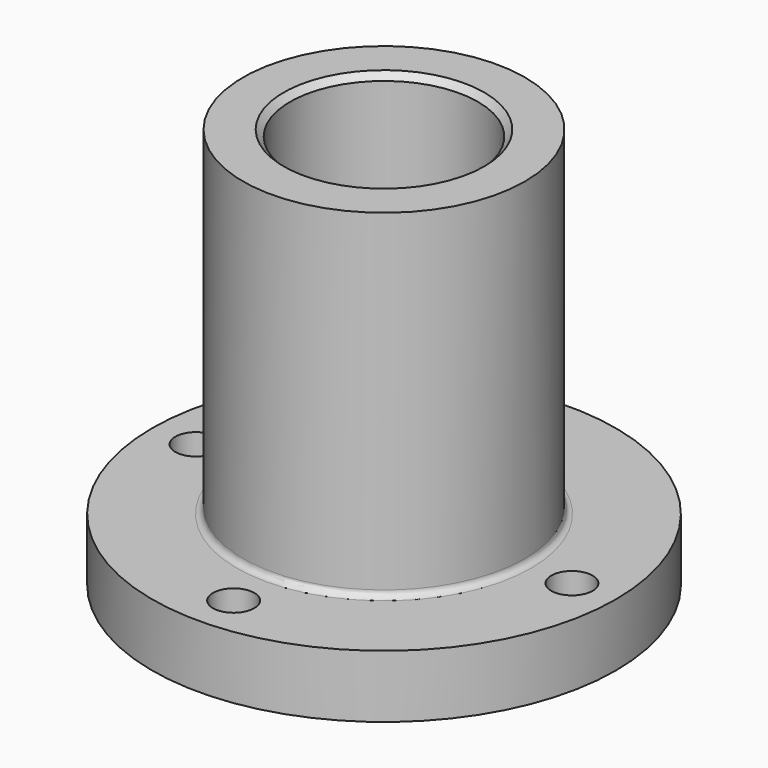
from build123d import *

# Parameters (mm, degrees)
F2_R     = 3.3
F3_DEPTH = 64.001
F4_R     = 5.5
F5_DEPTH = 6.1
F6_R     = 1
F7_SIZE2 = 1
F7_SIZE  = 1
F8_SIZE  = 1


with BuildPart() as f1:
    # F0 (on Front) → F1 (revolve)
    with BuildSketch(Plane.XZ):
        Polygon((15, 64), (15, 0), (37, 0), (37, 10), (22.5, 10), (22.5, 64), align=None)
    revolve(axis=Axis((0, 0, 43.789597), (0, 0, 1)))

    # F2 (on face) → F3 (cut, through all)
    with BuildSketch(Plane(origin=(0, 0, 0), x_dir=(1, 0, 0), z_dir=(0, 0, -1))):
        with Locations((0, 30)):
            Circle(F2_R)
        with Locations((-30, 0)):
            Circle(F2_R)
        with Locations((0, -30)):
            Circle(F2_R)
        with Locations((30, 0)):
            Circle(F2_R)
    extrude(amount=-F3_DEPTH, mode=Mode.SUBTRACT)

    # F4 (on face) → F5 (cut)
    with BuildSketch(Plane(origin=(0, 0, 0), x_dir=(1, 0, 0), z_dir=(0, 0, -1))):
        with Locations((0, 30)):
            Circle(F4_R)
        with Locations((30, 0)):
            Circle(F4_R)
        with Locations((-30, 0)):
            Circle(F4_R)
        with Locations((0, -30)):
            Circle(F4_R)
    extrude(amount=-F5_DEPTH, mode=Mode.SUBTRACT)

    # F6
    f6_edges = [f1.edges().sort_by_distance(p)[0] for p in [
        (-22.5, 0, 10),
    ]]
    fillet(f6_edges, radius=F6_R)

    # F7
    f7_edges = [f1.edges().sort_by_distance(p)[0] for p in [
        (-15, 0, 0),
    ]]
    chamfer(f7_edges, length=F7_SIZE, length2=F7_SIZE2)

    # F8
    f8_edges = [f1.edges().sort_by_distance(p)[0] for p in [
        (-15, 0, 64),
    ]]
    chamfer(f8_edges, length=F8_SIZE)


solid = f1.part
